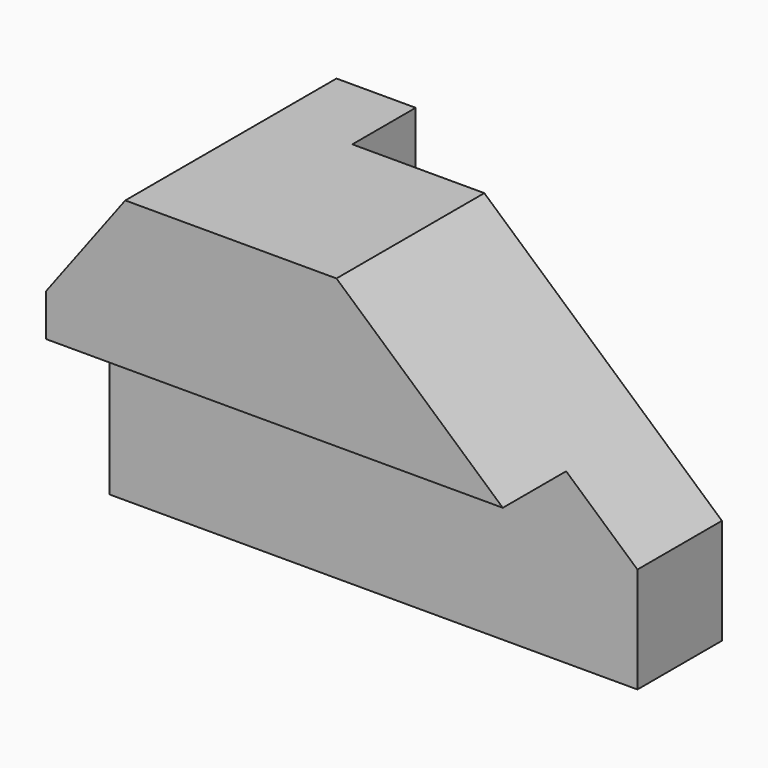
from build123d import *

# Parameters (mm, degrees)
F0_W     = 100
F0_H     = 50
F1_DEPTH = 60
F3_DEPTH = 50
F5_DEPTH = 50
F6_W     = 15
F6_H     = 32
F7_DEPTH = 100
F8_W     = 70
F8_H     = 15
F9_DEPTH = 60.001


with BuildPart() as f1:
    # F0 (on Top) → F1 (new body)
    with BuildSketch(Plane.XY):
        with Locations((50, 25)):
            Rectangle(F0_W, F0_H)
    extrude(amount=F1_DEPTH)

    # F2 (on face) → F3 (cut, through all)
    with BuildSketch(Plane.XZ):
        Polygon((0, 40), (15, 60), (0, 60), align=None)
    extrude(amount=-F3_DEPTH, mode=Mode.SUBTRACT)

    # F4 (on face) → F5 (cut, through all)
    with BuildSketch(Plane.XZ):
        Polygon((100, 60), (55, 60), (100, 20), align=None)
    extrude(amount=-F5_DEPTH, mode=Mode.SUBTRACT)

    # F6 (on face) → F7 (cut, through all)
    with BuildSketch(Plane(origin=(0, 0, 0), x_dir=(0, -1, 0), z_dir=(-1, 0, 0))):
        with Locations((-7.5, 16)):
            Rectangle(F6_W, F6_H)
    extrude(amount=-F7_DEPTH, mode=Mode.SUBTRACT)

    # F8 (on face) → F9 (cut, through all)
    with BuildSketch(Plane(origin=(0, 0, 0), x_dir=(1, 0, 0), z_dir=(0, 0, -1))):
        with Locations((65, -42.5)):
            Rectangle(F8_W, F8_H)
    extrude(amount=-F9_DEPTH, mode=Mode.SUBTRACT)


solid = f1.part
